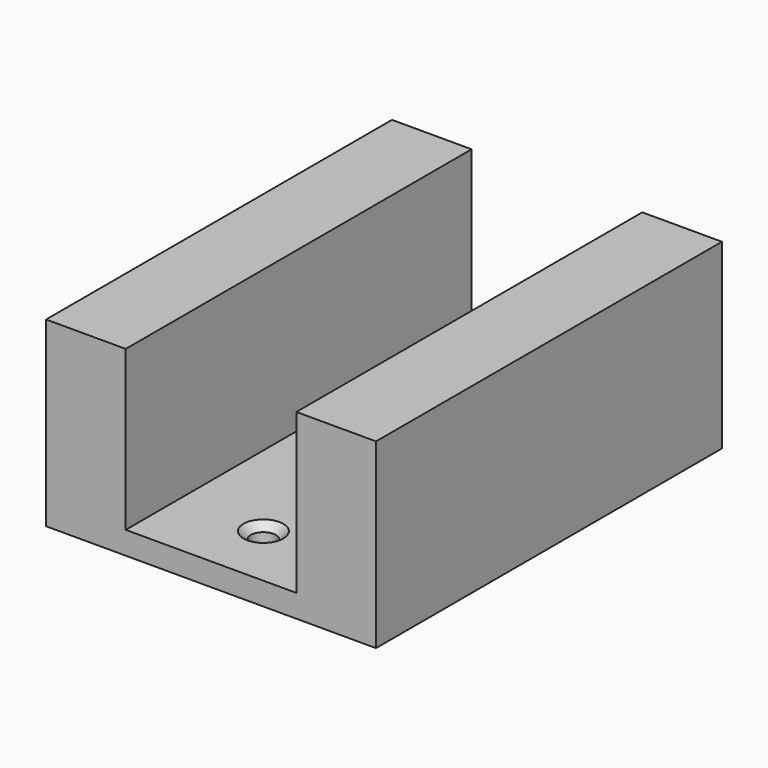
from build123d import *

# Parameters (mm, degrees)
SKETCH001_W      = 29
SKETCH001_H      = 38
PAD_DEPTH        = 2
SKETCH_W         = 7
SKETCH_H         = 38
PAD001_DEPTH     = 14
HOLE_D           = 2.2
HOLE_DEPTH       = 25
HOLE_CSINK_D     = 3.5
HOLE_CSINK_ANGLE = 90


with BuildPart() as part:
    # Sketch001 → Pad (new body)
    with BuildSketch(Plane.XY):
        Rectangle(SKETCH001_W, SKETCH001_H)
    extrude(amount=-PAD_DEPTH)

    # Sketch → Pad001 (join)
    with BuildSketch(Plane.XY):
        with Locations((11, 0)):
            Rectangle(SKETCH_W, SKETCH_H)
        with Locations((-11, 0)):
            Rectangle(SKETCH_W, SKETCH_H)
    extrude(amount=PAD001_DEPTH)

    # Hole
    with Locations(Plane.XY):
        with Locations((0, 13.25), (0, -13.25)):
            CounterSinkHole(HOLE_D / 2, HOLE_CSINK_D / 2, depth=HOLE_DEPTH, counter_sink_angle=HOLE_CSINK_ANGLE)


solid = part.part
